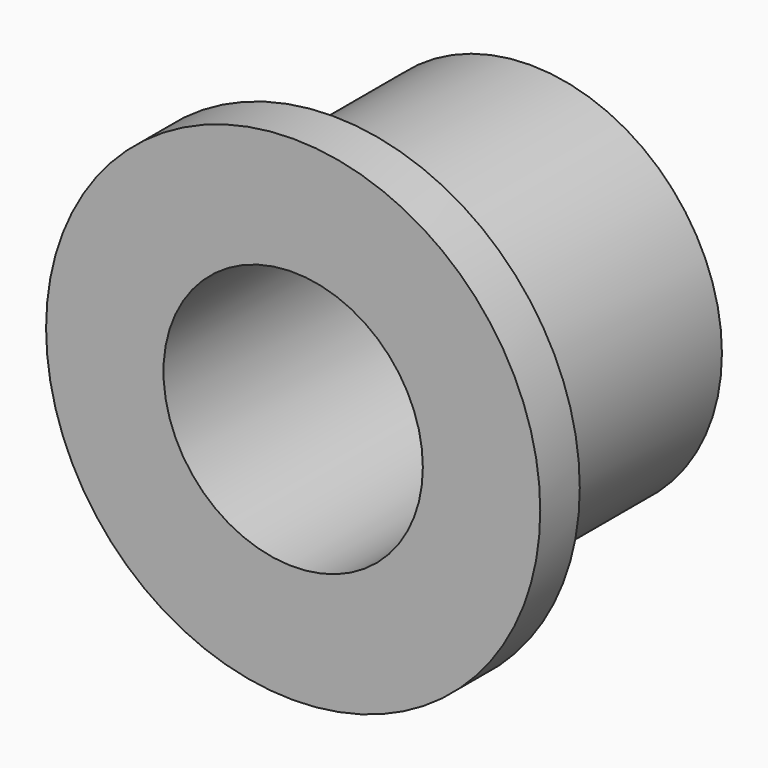
from build123d import *

# Parameters (mm, degrees)
F0_R     = 24.6126
F0_R_2   = 16.6624
F1_DEPTH = 31.75
F2_R     = 31.75
F2_R_2   = 16.6624
F3_DEPTH = 6.35


with BuildPart() as f1:
    # F0 (on Front) → F1 (new body)
    with BuildSketch(Plane.XZ):
        Circle(F0_R)
        Circle(F0_R_2, mode=Mode.SUBTRACT)
    extrude(amount=-F1_DEPTH)

    # F2 (on Front) → F3 (join)
    with BuildSketch(Plane.XZ):
        Circle(F2_R)
        Circle(F2_R_2, mode=Mode.SUBTRACT)
    extrude(amount=F3_DEPTH)


solid = f1.part
